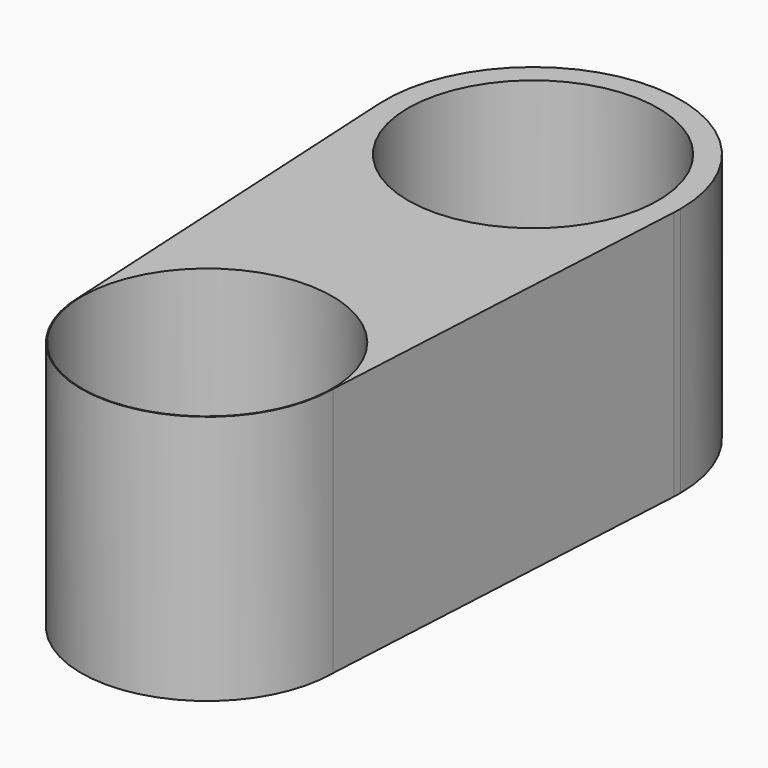
from build123d import *

# Parameters (mm, degrees)
F1_DEPTH = 25.4
F3_D     = 25.4


with BuildPart() as f1:
    # F0 (on Top) → F1 (new body)
    with BuildSketch(Plane.XY):
        with BuildLine():
            ThreePointArc((14.959334, 40.568), (0, 26.38864), (-14.959334, 40.568))
            Line((-14.959334, 40.568), (-12.785955, 0))
            ThreePointArc((-12.785955, 0), (0, 12.785955), (12.785955, 0))
            Line((12.785955, 0), (14.959334, 40.568))
        make_face()
        with BuildLine():
            ThreePointArc((14.959334, 40.568), (14.975423, 40.96857), (14.980787, 41.369427))
            ThreePointArc((14.980787, 41.369427), (-0.400857, 56.34485), (-14.959334, 40.568))
            ThreePointArc((-14.959334, 40.568), (0, 26.38864), (14.959334, 40.568))
        make_face()
        with BuildLine():
            ThreePointArc((12.785955, 0), (0, 12.785955), (-12.785955, 0))
            ThreePointArc((-12.785955, 0), (0, -12.785955), (12.785955, 0))
        make_face()
    extrude(amount=F1_DEPTH)

    # F3 (through all)
    with Locations(Plane.XY.offset(25.4)):
        with Locations((0, 0), (0, 41.369427)):
            Hole(F3_D / 2)


solid = f1.part
